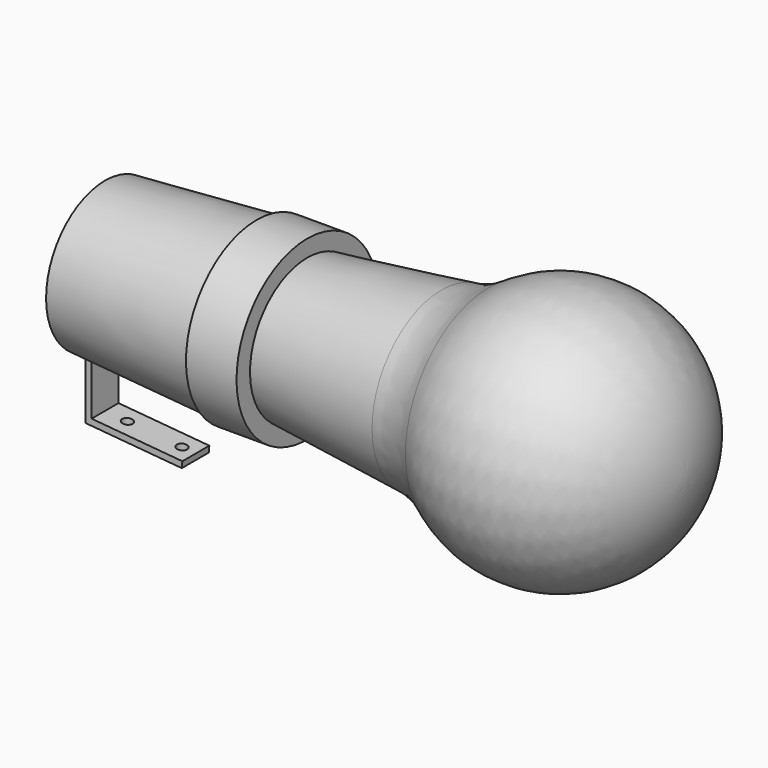
from build123d import *

# Parameters (mm, degrees)
PAD_DEPTH   = 4
FILLET_R    = 25
SKETCH002_R = 1.25
HOLE_DEPTH  = 3
HOLE_TIPS_R = 1.25


with BuildPart() as part:
    # Sketch → Revolution (revolve)
    with BuildSketch(Plane.XZ):
        with BuildLine():
            Line((0, 0), (0, 17.5))
            Line((0, 17.5), (36, 20))
            Line((36, 20), (36, 21))
            Line((36, 21), (48, 21))
            Line((48, 21), (48, 17))
            Line((48, 17), (87, 21.424285))
            ThreePointArc((138, 0), (119.61895, 27.658633), (87, 21.424285))
            Line((138, 0), (0, 0))
        make_face()
    revolve(axis=Axis((0, 0, 0), (1, 0, 0)))

    # Sketch001 → Pad (new body, symmetric)
    with BuildSketch(Plane.XZ):
        Polygon((0, 0), (0, -30.625503), (21.543212, -32.51029), (21.412478, -34.004582), (-1.5, -32), (-1.5, 0), align=None)
    extrude(amount=PAD_DEPTH, both=True)

    # Fillet
    fillet_edges = [part.edges().sort_by_distance(p)[0] for p in [
        (87, 0, -21.424285),
    ]]
    fillet(fillet_edges, radius=FILLET_R)

    # Sketch002 (on Face15 of Fillet) → Hole (cut)
    with BuildSketch(Plane(origin=(-2.789765, 0, -31.88716), x_dir=(0.996195, 0, -0.087156), z_dir=(-0.087156, 0, -0.996195))):
        with Locations((8, 0)):
            Circle(SKETCH002_R)
        with Locations((21, 0)):
            Circle(SKETCH002_R)
    extrude(amount=-HOLE_DEPTH, mode=Mode.SUBTRACT)

    # Hole tips → Hole tip 1 section 0
    with BuildSketch(Plane(origin=(-2.528298, 0, -28.898576), x_dir=(0.996195, 0, -0.087156), z_dir=(-0.087156, 0, -0.996195)), mode=Mode.PRIVATE) as hole_tip_1_s0:
        with Locations((8, 0)):
            Circle(HOLE_TIPS_R)
    loft([hole_tip_1_s0.sketch, Vertex(5.50672, 0, -28.847604)], mode=Mode.SUBTRACT)

    # Hole tips → Hole tip 2 section 0
    with BuildSketch(Plane(origin=(-2.528298, 0, -28.898576), x_dir=(0.996195, 0, -0.087156), z_dir=(-0.087156, 0, -0.996195)), mode=Mode.PRIVATE) as hole_tip_2_s0:
        with Locations((21, 0)):
            Circle(HOLE_TIPS_R)
    loft([hole_tip_2_s0.sketch, Vertex(18.457251, 0, -29.980629)], mode=Mode.SUBTRACT)


solid = part.part
